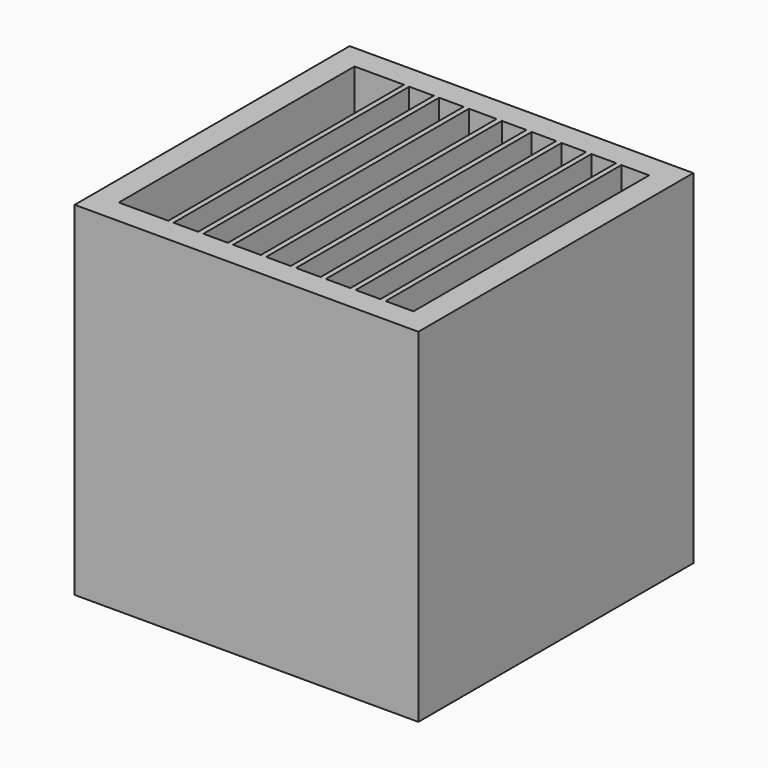
from build123d import *

# Parameters (mm, degrees)
F0_W      = 177.9024153948
F0_H      = 177.9024153948
F1_DEPTH  = 177.8
F2_T      = -12.7
F3_W      = 2.7366392314
F3_H      = 152.5024153948
F4_DEPTH  = 177.8
F5_DEPTH  = 177.8
F6_DEPTH  = 177.8
F7_DEPTH  = 177.8
F8_DEPTH  = 177.8
F9_DEPTH  = 177.8
F10_DEPTH = 177.8


with BuildPart() as f1:
    # F0 (on Top) → F1 (new body)
    with BuildSketch(Plane.XY):
        with Locations((-2.6710182428, 4.0681362152)):
            Rectangle(F0_W, F0_H)
    extrude(amount=F1_DEPTH)

    # F2
    f2_openings = [f1.faces().sort_by_distance(p)[0] for p in [
        (-2.671018, 4.068136, 177.8),
    ]]
    offset(amount=F2_T, openings=f2_openings)

    # F3 (on Top) → F4 (join)
    with BuildSketch(Plane.XY):
        with Locations((-51.9812684506, 4.0681362152)):
            Rectangle(F3_W, F3_H)
    extrude(amount=F4_DEPTH)

    # F3 (on Top) → F5 (join)
    with BuildSketch(Plane.XY):
        with Locations((-36.5270059556, 4.0681362152)):
            Rectangle(F3_W, F3_H)
        with Locations((-21.0903659463, 4.0681362152)):
            Rectangle(F3_W, F3_H)
    extrude(amount=F5_DEPTH)

    # F3 (on Top) → F6 (join)
    with BuildSketch(Plane.XY):
        with Locations((-4.0393378586, 4.0681362152)):
            Rectangle(F3_W, F3_H)
    extrude(amount=F6_DEPTH)

    # F3 (on Top) → F7 (join)
    with BuildSketch(Plane.XY):
        with Locations((11.4149246365, 4.0681362152)):
            Rectangle(F3_W, F3_H)
    extrude(amount=F7_DEPTH)

    # F3 (on Top) → F8 (join)
    with BuildSketch(Plane.XY):
        with Locations((26.8691871315, 4.0681362152)):
            Rectangle(F3_W, F3_H)
    extrude(amount=F8_DEPTH)

    # F3 (on Top) → F9 (join)
    with BuildSketch(Plane.XY):
        with Locations((42.3234496266, 4.0681362152)):
            Rectangle(F3_W, F3_H)
    extrude(amount=F9_DEPTH)

    # F3 (on Top) → F10 (join)
    with BuildSketch(Plane.XY):
        with Locations((57.8350741416, 4.0681362152)):
            Rectangle(F3_W, F3_H)
    extrude(amount=F10_DEPTH)


solid = f1.part
